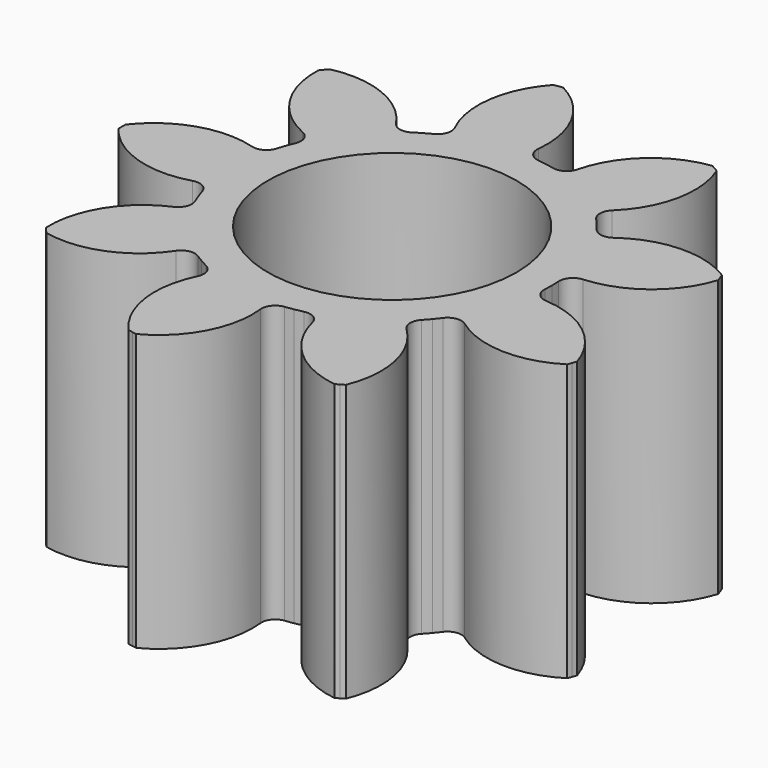
from build123d import *

# Parameters (mm, degrees)
F0_R     = 4.5
F1_DEPTH = 10


with BuildPart() as f1:
    # F0 (on Top) → F1 (new body)
    with BuildSketch(Plane.XY):
        with BuildLine():
            ThreePointArc((-2.392851, 5.821348), (-2.36707, 5.442285), (-2.615174, 5.154538))
            ThreePointArc((-2.615174, 5.154538), (-2.753594, 5.081941), (-2.89, 5.005627))
            ThreePointArc((-2.89, 5.005627), (-3.024293, 4.925652), (-3.156374, 4.842076))
            ThreePointArc((-3.156374, 4.842076), (-3.529622, 4.771085), (-3.84501, 4.982943))
            ThreePointArc((-3.84501, 4.982943), (-5.394961, 6.242549), (-7.385022, 6.411696))
            Line((-7.385022, 6.411696), (-7.492977, 6.287354))
            Line((-7.492977, 6.287354), (-7.596684, 6.159448))
            ThreePointArc((-7.596684, 6.159448), (-7.084536, 4.228992), (-5.57492, 2.921316))
            ThreePointArc((-5.57492, 2.921316), (-5.311514, 2.647509), (-5.316613, 2.267604))
            ThreePointArc((-5.316613, 2.267604), (-5.375984, 2.123017), (-5.431423, 1.976876))
            ThreePointArc((-5.431423, 1.976876), (-5.482891, 1.829291), (-5.53035, 1.680367))
            ThreePointArc((-5.53035, 1.680367), (-5.770641, 1.386066), (-6.148423, 1.345631))
            ThreePointArc((-6.148423, 1.345631), (-8.145413, 1.314256), (-9.778614, 0.164643))
            Line((-9.778614, 0.164643), (-9.781386, 0))
            Line((-9.781386, 0), (-9.778614, -0.164643))
            ThreePointArc((-9.778614, -0.164643), (-8.145413, -1.314256), (-6.148423, -1.345631))
            ThreePointArc((-6.148423, -1.345631), (-5.770641, -1.386066), (-5.53035, -1.680367))
            ThreePointArc((-5.53035, -1.680367), (-5.482891, -1.829291), (-5.431423, -1.976876))
            ThreePointArc((-5.431423, -1.976876), (-5.375984, -2.123017), (-5.316613, -2.267604))
            ThreePointArc((-5.316613, -2.267604), (-5.311514, -2.647509), (-5.57492, -2.921316))
            ThreePointArc((-5.57492, -2.921316), (-7.084536, -4.228992), (-7.596684, -6.159448))
            Line((-7.596684, -6.159448), (-7.492977, -6.287354))
            Line((-7.492977, -6.287354), (-7.385022, -6.411696))
            ThreePointArc((-7.385022, -6.411696), (-5.394961, -6.242549), (-3.84501, -4.982943))
            ThreePointArc((-3.84501, -4.982943), (-3.529622, -4.771085), (-3.156374, -4.842076))
            ThreePointArc((-3.156374, -4.842076), (-3.024293, -4.925652), (-2.89, -5.005627))
            ThreePointArc((-2.89, -5.005627), (-2.753594, -5.081941), (-2.615174, -5.154538))
            ThreePointArc((-2.615174, -5.154538), (-2.36707, -5.442285), (-2.392851, -5.821348))
            ThreePointArc((-2.392851, -5.821348), (-2.708726, -7.793448), (-1.860181, -9.601465))
            Line((-1.860181, -9.601465), (-1.69852, -9.632785))
            Line((-1.69852, -9.632785), (-1.535897, -9.658645))
            ThreePointArc((-1.535897, -9.658645), (-0.120147, -8.249884), (0.257526, -6.288681))
            ThreePointArc((0.257526, -6.288681), (0.362947, -5.92366), (0.694504, -5.738124))
            ThreePointArc((0.694504, -5.738124), (0.849406, -5.717247), (1.003686, -5.692189))
            ThreePointArc((1.003686, -5.692189), (1.157233, -5.662968), (1.309934, -5.629607))
            ThreePointArc((1.309934, -5.629607), (1.684953, -5.690555), (1.90886, -5.997506))
            ThreePointArc((1.90886, -5.997506), (2.934527, -7.711263), (4.746722, -8.55085))
            Line((4.746722, -8.55085), (4.890693, -8.470929))
            Line((4.890693, -8.470929), (5.031892, -8.386207))
            ThreePointArc((5.031892, -8.386207), (5.210886, -6.397007), (4.239562, -4.651875))
            ThreePointArc((4.239562, -4.651875), (4.085689, -4.304489), (4.220415, -3.94924))
            ThreePointArc((4.220415, -3.94924), (4.325658, -3.833678), (4.427737, -3.715312))
            ThreePointArc((4.427737, -3.715312), (4.526578, -3.59423), (4.622109, -3.47052))
            ThreePointArc((4.622109, -3.47052), (4.948567, -3.276151), (5.317394, -3.367364))
            ThreePointArc((5.317394, -3.367364), (7.204682, -4.020892), (9.13258, -3.499197))
            Line((9.13258, -3.499197), (9.191496, -3.345431))
            Line((9.191496, -3.345431), (9.245203, -3.189769))
            ThreePointArc((9.245203, -3.189769), (8.103686, -1.550899), (6.23786, -0.838405))
            ThreePointArc((6.23786, -0.838405), (5.896692, -0.6712), (5.771548, -0.312462))
            ThreePointArc((5.771548, -0.312462), (5.777887, -0.156288), (5.78, 0))
            ThreePointArc((5.78, 0), (5.777887, 0.156288), (5.771548, 0.312462))
            ThreePointArc((5.771548, 0.312462), (5.896692, 0.6712), (6.23786, 0.838405))
            ThreePointArc((6.23786, 0.838405), (8.103686, 1.550899), (9.245203, 3.189769))
            Line((9.245203, 3.189769), (9.191496, 3.345431))
            Line((9.191496, 3.345431), (9.13258, 3.499197))
            ThreePointArc((9.13258, 3.499197), (7.204682, 4.020892), (5.317394, 3.367364))
            ThreePointArc((5.317394, 3.367364), (4.948567, 3.276151), (4.622109, 3.47052))
            ThreePointArc((4.622109, 3.47052), (4.526578, 3.59423), (4.427737, 3.715312))
            ThreePointArc((4.427737, 3.715312), (4.325658, 3.833678), (4.220415, 3.94924))
            ThreePointArc((4.220415, 3.94924), (4.085689, 4.304489), (4.239562, 4.651875))
            ThreePointArc((4.239562, 4.651875), (5.210886, 6.397007), (5.031892, 8.386207))
            Line((5.031892, 8.386207), (4.890693, 8.470929))
            Line((4.890693, 8.470929), (4.746722, 8.55085))
            ThreePointArc((4.746722, 8.55085), (2.934527, 7.711263), (1.90886, 5.997506))
            ThreePointArc((1.90886, 5.997506), (1.684953, 5.690555), (1.309934, 5.629607))
            ThreePointArc((1.309934, 5.629607), (1.157233, 5.662968), (1.003686, 5.692189))
            ThreePointArc((1.003686, 5.692189), (0.849406, 5.717247), (0.694504, 5.738124))
            ThreePointArc((0.694504, 5.738124), (0.362947, 5.92366), (0.257526, 6.288681))
            ThreePointArc((0.257526, 6.288681), (-0.120147, 8.249884), (-1.535897, 9.658645))
            Line((-1.535897, 9.658645), (-1.69852, 9.632785))
            Line((-1.69852, 9.632785), (-1.860181, 9.601465))
            ThreePointArc((-1.860181, 9.601465), (-2.708726, 7.793448), (-2.392851, 5.821348))
        make_face()
        Circle(F0_R, mode=Mode.SUBTRACT)
    extrude(amount=F1_DEPTH)


solid = f1.part
